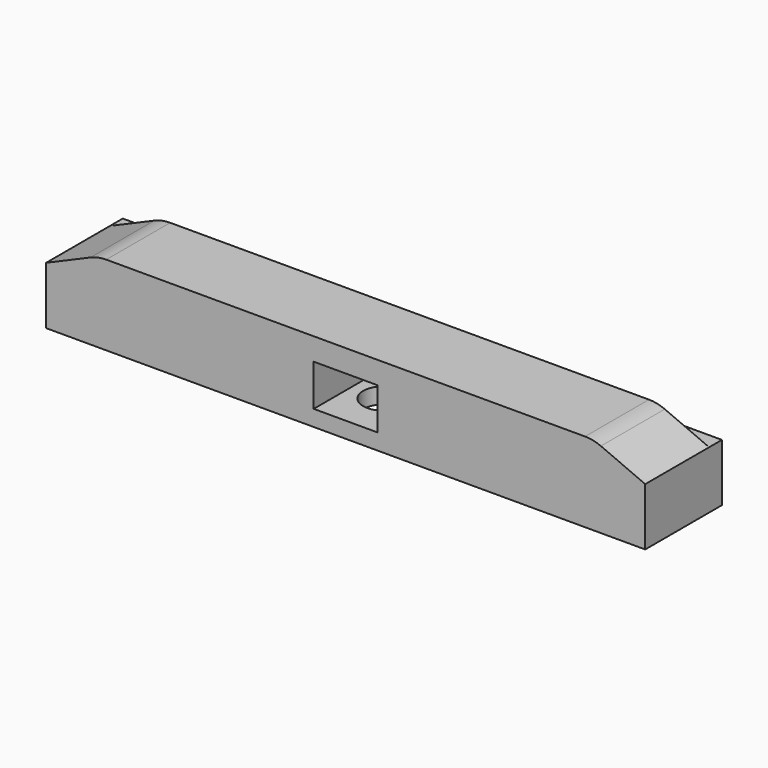
from build123d import *

# Parameters (mm, degrees)
F0_W     = 75
F0_H     = 12
F0_R     = 2.6
F1_DEPTH = 7.2
F2_R     = 2.6
F3_DEPTH = 5.2
F5_DEPTH = 10
F6_R     = 5


with BuildPart() as f1:
    # F0 (on Top) → F1 (new body)
    with BuildSketch(Plane.XY):
        Rectangle(F0_W, F0_H)
        with Locations((-22, 0)):
            Circle(F0_R, mode=Mode.SUBTRACT)
        Circle(F0_R, mode=Mode.SUBTRACT)
        with Locations((22, 0)):
            Circle(F0_R, mode=Mode.SUBTRACT)
    extrude(amount=F1_DEPTH)

    # F2 (on face) → F3 (cut)
    with BuildSketch(Plane.XY.offset(7.2)):
        Polygon((4, -2.309401), (4, 2.309401), (0, 4.618802), (-4, 2.309401), (-4, -2.309401), (-4, -6), (4, -6), align=None)
        Circle(F2_R, mode=Mode.SUBTRACT)
    extrude(amount=-F3_DEPTH, mode=Mode.SUBTRACT)

    # F4 (on face) → F5 (join)
    with BuildSketch(Plane.XZ.offset(6)):
        Polygon((31, 10), (-31, 10), (-37.5, 7.2), (37.5, 7.2), align=None)
    extrude(amount=-F5_DEPTH)

    # F6
    f6_edges = [f1.edges().sort_by_distance(p)[0] for p in [
        (-31, -1, 10),
        (31, -1, 10),
    ]]
    fillet(f6_edges, radius=F6_R)


solid = f1.part
